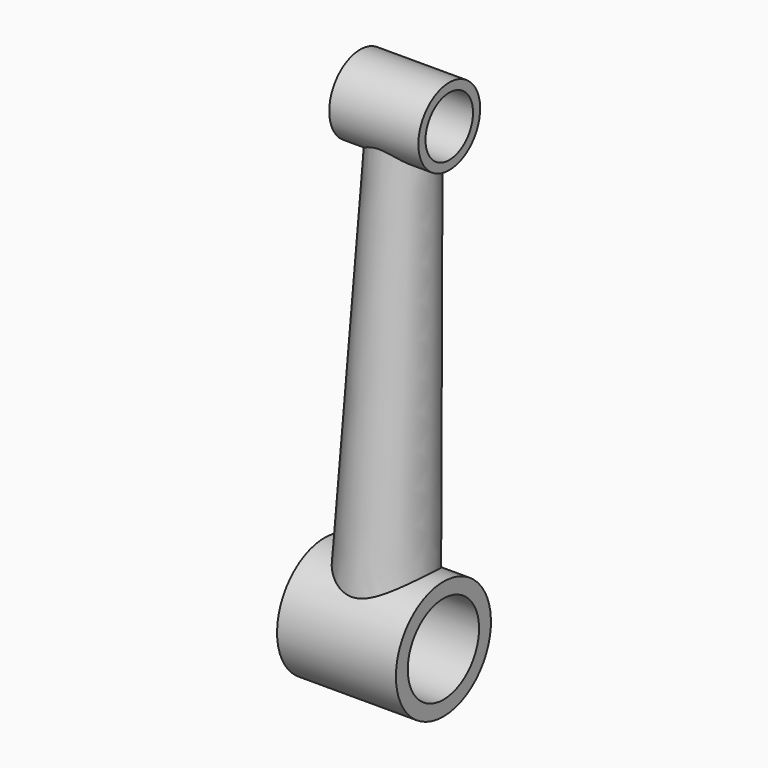
from build123d import *

# Parameters (mm, degrees)
CYLINDER023_R          = 10
CYLINDER023_DEPTH      = 100
CYLINDER024_R          = 15
CYLINDER024_DEPTH      = 100
CYLINDER022_R          = 13
CYLINDER022_DEPTH      = 30
CYLINDER021_R          = 20
CYLINDER021_DEPTH      = 40
CUT014_PLACEMENT_ANGLE = 356.673392


with BuildPart() as cylinder023:
    # Cylinder023 → Cylinder023 (new body)
    with BuildSketch(Plane(origin=(50, 0, 150), x_dir=(0, 0, 1), z_dir=(-1, 0, 0))):
        Circle(CYLINDER023_R)
    extrude(amount=CYLINDER023_DEPTH)


with BuildPart() as compound009:
    # Cylinder024 → Cylinder024 (new body)
    with BuildSketch(Plane.ZY.offset(-50)):
        Circle(CYLINDER024_R)
    extrude(amount=CYLINDER024_DEPTH)

    # Compound009: union Cylinder023
    add(cylinder023.part)


with BuildPart() as cone004:
    # Cone001003 → Cone001003 (revolve)
    with BuildSketch(Plane.XZ):
        Polygon((0, 0), (15, 0), (10, 150), (0, 150), align=None)
    revolve(axis=Axis((0, 0, 0), (0, 0, 1)))


with BuildPart() as cylinder022:
    # Cylinder022 → Cylinder022 (new body)
    with BuildSketch(Plane(origin=(15, 0, 150), x_dir=(0, 0, 1), z_dir=(-1, 0, 0))):
        Circle(CYLINDER022_R)
    extrude(amount=CYLINDER022_DEPTH)


with BuildPart() as crank001:
    # Cylinder021 → Cylinder021 (new body)
    with BuildSketch(Plane.ZY.offset(-20)):
        Circle(CYLINDER021_R)
    extrude(amount=CYLINDER021_DEPTH)

    # Fusion003002003004005: union Cone004, Cylinder022
    add(cone004.part)
    add(cylinder022.part)

    # Cut014: cut Compound009
    add(compound009.part, mode=Mode.SUBTRACT)


with BuildPart() as crank001_1:
    # Cut014 placement: moved
    add(crank001.part.moved(Location((300, -8.704146, 33.900411))).rotate(Axis((300, -8.704146, 33.900411), (1, 0, 0)), CUT014_PLACEMENT_ANGLE))


solid = crank001_1.part
